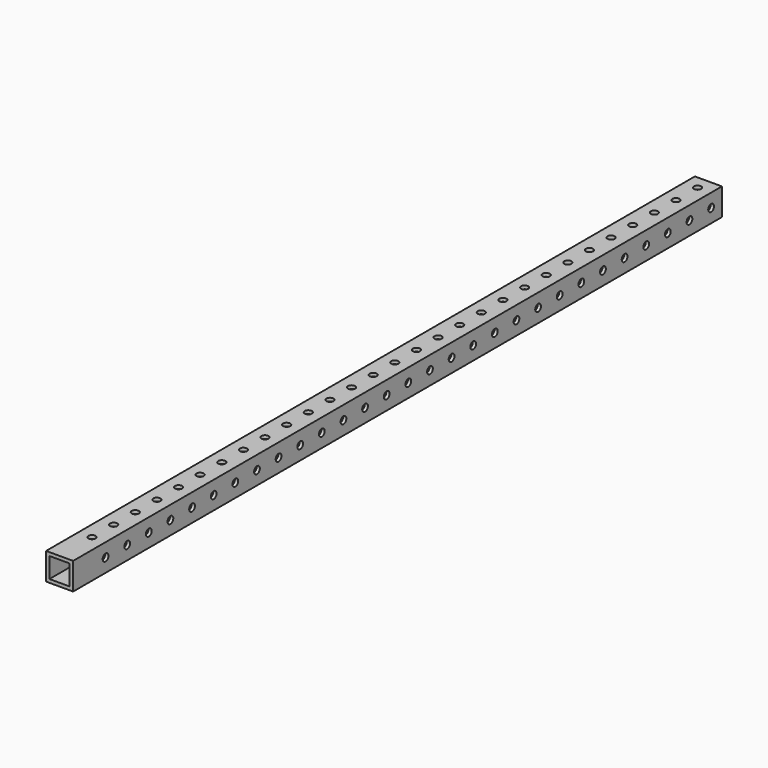
from build123d import *

# Parameters (mm, degrees)
F0_W     = 25.4
F0_H     = 25.4
F0_W_2   = 19.05
F0_H_2   = 19.05
F1_DEPTH = 381
F2_R     = 3.3782
F3_DEPTH = 25.4
F4_R     = 3.3782
F5_DEPTH = 25.4


with BuildPart() as f1:
    # F0 (on Front) → F1 (new body, symmetric)
    with BuildSketch(Plane.XZ):
        Rectangle(F0_W, F0_H)
        Rectangle(F0_W_2, F0_H_2, mode=Mode.SUBTRACT)
    extrude(amount=F1_DEPTH, both=True)

    # F2 (on face) → F3 (cut, through all)
    with BuildSketch(Plane.XY.offset(12.7)):
        with Locations((0, -342.9)):
            Circle(F2_R)
        with Locations((0, -317.5)):
            Circle(F2_R)
        with Locations((0, -292.1)):
            Circle(F2_R)
        with Locations((0, -266.7)):
            Circle(F2_R)
        with Locations((0, -241.3)):
            Circle(F2_R)
        with Locations((0, -215.9)):
            Circle(F2_R)
        with Locations((0, -190.5)):
            Circle(F2_R)
        with Locations((0, -165.1)):
            Circle(F2_R)
        with Locations((0, -139.7)):
            Circle(F2_R)
        with Locations((0, -114.3)):
            Circle(F2_R)
        with Locations((0, -88.9)):
            Circle(F2_R)
        with Locations((0, -63.5)):
            Circle(F2_R)
        with Locations((0, -38.1)):
            Circle(F2_R)
        with Locations((0, -12.7)):
            Circle(F2_R)
        with Locations((0, 12.7)):
            Circle(F2_R)
        with Locations((0, 38.1)):
            Circle(F2_R)
        with Locations((0, 63.5)):
            Circle(F2_R)
        with Locations((0, 88.9)):
            Circle(F2_R)
        with Locations((0, 114.3)):
            Circle(F2_R)
        with Locations((0, 139.7)):
            Circle(F2_R)
        with Locations((0, 165.1)):
            Circle(F2_R)
        with Locations((0, 190.5)):
            Circle(F2_R)
        with Locations((0, 215.9)):
            Circle(F2_R)
        with Locations((0, 241.3)):
            Circle(F2_R)
        with Locations((0, 266.7)):
            Circle(F2_R)
        with Locations((0, 292.1)):
            Circle(F2_R)
        with Locations((0, 317.5)):
            Circle(F2_R)
        with Locations((0, 342.9)):
            Circle(F2_R)
        with Locations((0, 368.3)):
            Circle(F2_R)
        with Locations((0, 393.7)):
            Circle(F2_R)
    extrude(amount=-F3_DEPTH, mode=Mode.SUBTRACT)

    # F4 (on face) → F5 (cut)
    with BuildSketch(Plane.YZ.offset(12.7)):
        with Locations((-342.9, 0)):
            Circle(F4_R)
        with Locations((-317.5, 0)):
            Circle(F4_R)
        with Locations((-292.1, 0)):
            Circle(F4_R)
        with Locations((-266.7, 0)):
            Circle(F4_R)
        with Locations((-241.3, 0)):
            Circle(F4_R)
        with Locations((-215.9, 0)):
            Circle(F4_R)
        with Locations((-190.5, 0)):
            Circle(F4_R)
        with Locations((-165.1, 0)):
            Circle(F4_R)
        with Locations((-139.7, 0)):
            Circle(F4_R)
        with Locations((-114.3, 0)):
            Circle(F4_R)
        with Locations((-88.9, 0)):
            Circle(F4_R)
        with Locations((-63.5, 0)):
            Circle(F4_R)
        with Locations((-38.1, 0)):
            Circle(F4_R)
        with Locations((-12.7, 0)):
            Circle(F4_R)
        with Locations((12.7, 0)):
            Circle(F4_R)
        with Locations((38.1, 0)):
            Circle(F4_R)
        with Locations((63.5, 0)):
            Circle(F4_R)
        with Locations((88.9, 0)):
            Circle(F4_R)
        with Locations((114.3, 0)):
            Circle(F4_R)
        with Locations((139.7, 0)):
            Circle(F4_R)
        with Locations((165.1, 0)):
            Circle(F4_R)
        with Locations((190.5, 0)):
            Circle(F4_R)
        with Locations((215.9, 0)):
            Circle(F4_R)
        with Locations((241.3, 0)):
            Circle(F4_R)
        with Locations((266.7, 0)):
            Circle(F4_R)
        with Locations((292.1, 0)):
            Circle(F4_R)
        with Locations((317.5, 0)):
            Circle(F4_R)
        with Locations((342.9, 0)):
            Circle(F4_R)
        with Locations((368.3, 0)):
            Circle(F4_R)
        with Locations((393.7, 0)):
            Circle(F4_R)
    extrude(amount=-F5_DEPTH, mode=Mode.SUBTRACT)


solid = f1.part
